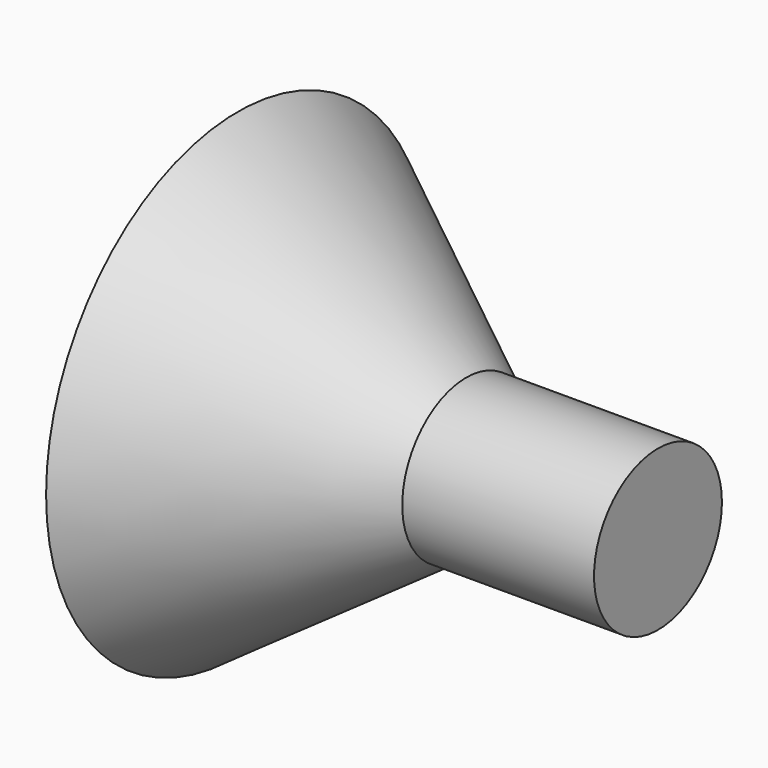
from build123d import *

# Parameters (mm, degrees)
F1_FACE_R = 5
F2_DEPTH  = 12


with BuildPart() as f1:
    # F0 (on Top) → F1 (revolve)
    with BuildSketch(Plane.XY):
        Polygon((0, 5), (-14.28148, 15), (-14.28148, 0), (0, 0), align=None)
        Polygon((0, 5), (-14.28148, 15), (-14.28148, 0), (0, 0), align=None)
    revolve(axis=Axis((-7.14074, 0, 0), (-1, 0, 0)))

    # F1_face (on face) → F2 (join)
    with BuildSketch(Plane.YZ):
        Circle(F1_FACE_R)
    extrude(amount=F2_DEPTH)


solid = f1.part
